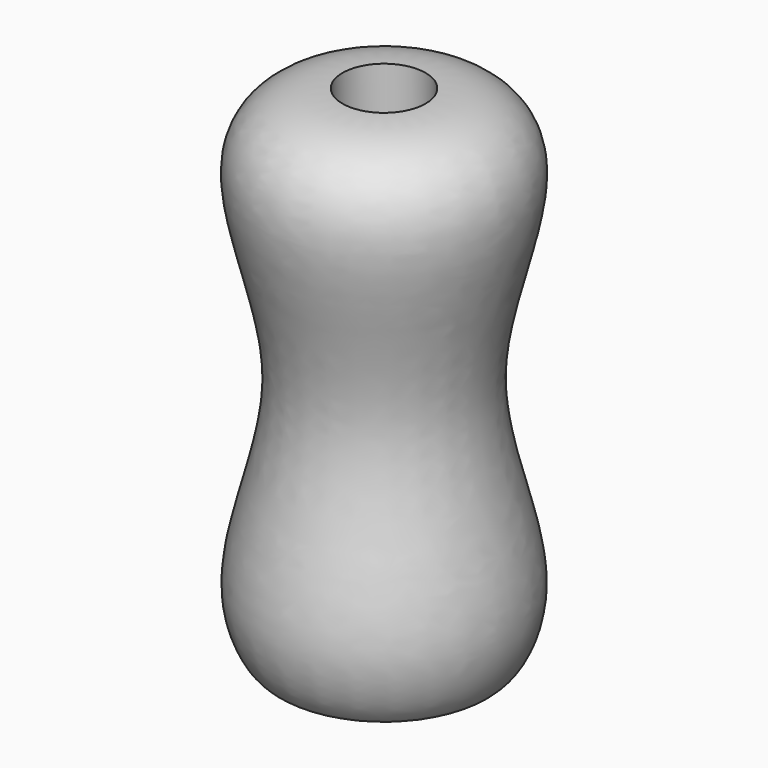
from build123d import *


with BuildPart() as f1:
    # F0 (on Front) → F1 (revolve)
    with BuildSketch(Plane.XZ):
        with BuildLine():
            add(Edge.make_bspline(
                [(8.334375, 50.8), (19.05, 50.8), (31.9988707209, 38.5801155128), (11.7683842061, -0.5087576579), (30.4961221569, -35.0096671954), (21.59, -50.8), (19.05, -50.8)],
                knots=[0, 0, 0, 0, 0.2216322147, 0.5202800712, 0.8189279276, 1, 1, 1, 1], degree=3))
            Line((8.334375, 50.8), (8.334375, 38.1))
            Line((8.334375, 38.1), (13.49375, 38.1))
            Line((13.49375, 38.1), (13.49375, -41.275))
            Line((13.49375, -41.275), (19.05, -41.275))
            Line((19.05, -41.275), (19.05, -50.8))
        make_face()
    revolve(axis=Axis((0, 0, 0), (0, 0, -1)))


solid = f1.part
